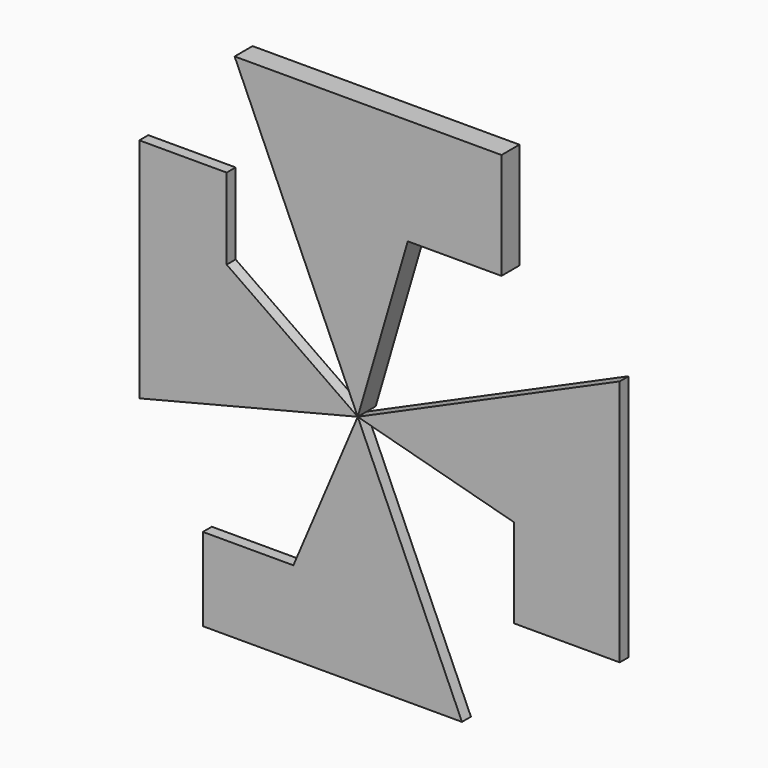
from build123d import *

# Parameters (mm, degrees)
F1_DEPTH = 2


with BuildPart() as f1:
    # F0 (on Front) → F1 (new body)
    with BuildSketch(Plane.XZ):
        Polygon((-21.9536889344, 49.4312047958), (0, 0), (8.9231124148, 30.4518900812), (25.6362445652, 30.4518900812), (25.6362445652, 49.4312047958), align=None)
    extrude(amount=F1_DEPTH)



with BuildPart() as f1b:
    # F0 (on Front) → F1, piece 2 (new body)
    with BuildSketch(Plane.XZ):
        Polygon((46.7234810933, 20.7511181266), (0, 0), (27.9024317861, -7.5067449361), (27.9024317861, -23.3700536191), (46.7234810933, -23.3700536191), align=None)
    extrude(amount=F1_DEPTH)


with BuildPart() as f1c:
    # F0 (on Front) → F1, piece 3 (new body)
    with BuildSketch(Plane.XZ):
        Polygon((18.5916709277, -41.8612423573), (0, 0), (-11.4725725725, -27.0526073873), (-27.6191551238, -27.0526073873), (-27.6191551238, -41.8612423573), align=None)
    extrude(amount=F1_DEPTH)


with BuildPart() as f1d:
    # F0 (on Front) → F1, piece 4 (new body)
    with BuildSketch(Plane.XZ):
        Polygon((-38.9500930905, -9.7729321569), (0, 0), (-23.3700554818, 16.2882208824), (-23.3700554818, 30.7351611555), (-38.9500930905, 30.7351611555), align=None)
    extrude(amount=F1_DEPTH)


with BuildPart() as f1_1:
    add(f1.part)

    add(f1b.part)  # F2 merges F1b

    add(f1c.part)  # F2 merges F1c

    add(f1d.part)  # F2 merges F1d
    # F2: F1 across plane
    add(f1.part.mirror(Plane.XZ))


solid = f1_1.part
